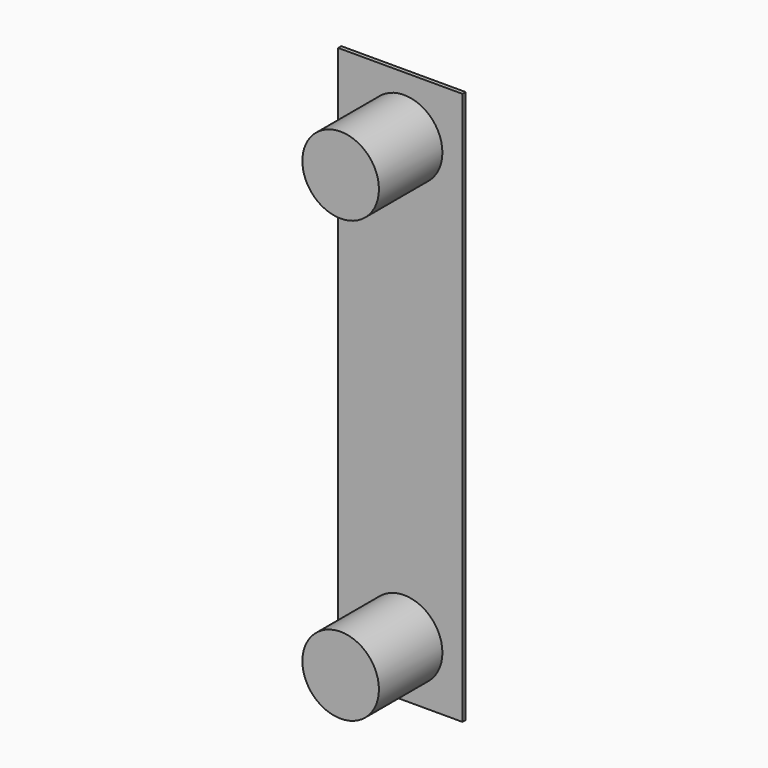
from build123d import *

# Parameters (mm, degrees)
F0_W     = 783.348828
F0_H     = 3484.897971
F0_R     = 241.3
F1_DEPTH = 25
F2_DEPTH = 500


with BuildPart() as f1:
    # F0 (on Front) → F1 (new body)
    with BuildSketch(Plane.XZ):
        with Locations((-24.319902, 499.398052)):
            Rectangle(F0_W, F0_H)
        with Locations((0, -900.072217)):
            Circle(F0_R, mode=Mode.SUBTRACT)
        with Locations((0, 1874.877783)):
            Circle(F0_R, mode=Mode.SUBTRACT)
    extrude(amount=-F1_DEPTH)


with BuildPart() as f2:
    # F0 (on Front) → F2 (new body)
    with BuildSketch(Plane.XZ):
        with Locations((0, 1874.877783)):
            Circle(F0_R)
        with Locations((0, -900.072217)):
            Circle(F0_R)
    extrude(amount=F2_DEPTH)


solid = Compound([f1.part, f2.part])
